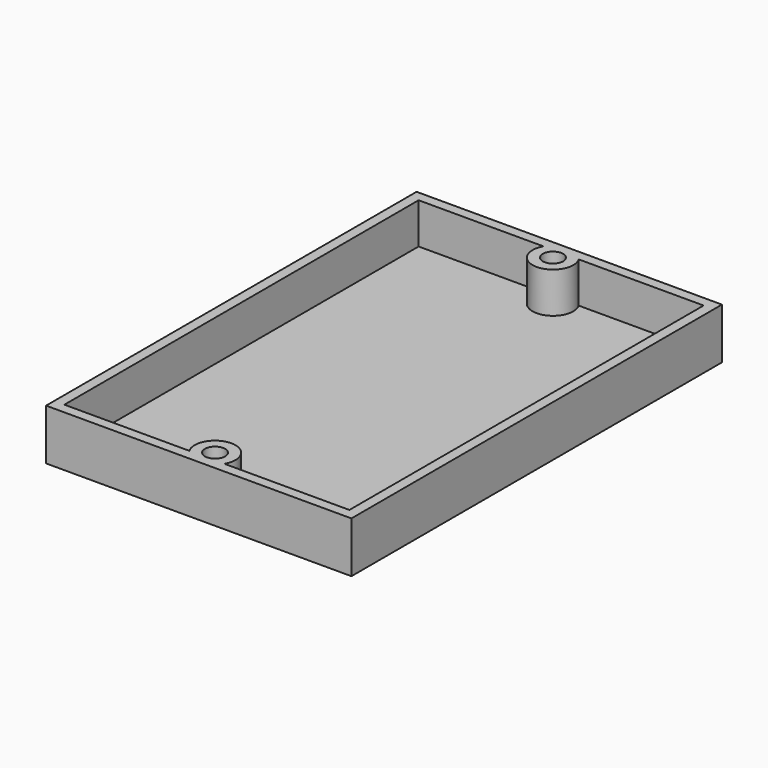
from build123d import *

# Parameters (mm, degrees)
F2_W     = 60
F2_H     = 91
F3_DEPTH = 10
F4_W     = 56
F4_H     = 87
F5_DEPTH = 8
F6_R     = 4
F7_DEPTH = 10
F8_R     = 2
F9_DEPTH = 10.001


with BuildPart() as f3:
    # F2 (on Top) → F3 (new body)
    with BuildSketch(Plane.XY):
        Rectangle(F2_W, F2_H)
    extrude(amount=F3_DEPTH)

    # F4 (on face) → F5 (cut)
    with BuildSketch(Plane.XY.offset(10)):
        Rectangle(F4_W, F4_H)
    extrude(amount=-F5_DEPTH, mode=Mode.SUBTRACT)

    # F6 (on face) → F7 (join)
    with BuildSketch(Plane(origin=(0, 0, 0), x_dir=(1, 0, 0), z_dir=(0, 0, -1))):
        with Locations((0, -41.5)):
            Circle(F6_R)
        with Locations((0, 41.5)):
            Circle(F6_R)
    extrude(amount=-F7_DEPTH)

    # F8 (on face) → F9 (cut, through all)
    with BuildSketch(Plane(origin=(0, 0, 0), x_dir=(1, 0, 0), z_dir=(0, 0, -1))):
        with Locations((0, -41.5)):
            Circle(F8_R)
        with Locations((0, 41.5)):
            Circle(F8_R)
    extrude(amount=-F9_DEPTH, mode=Mode.SUBTRACT)


solid = f3.part
